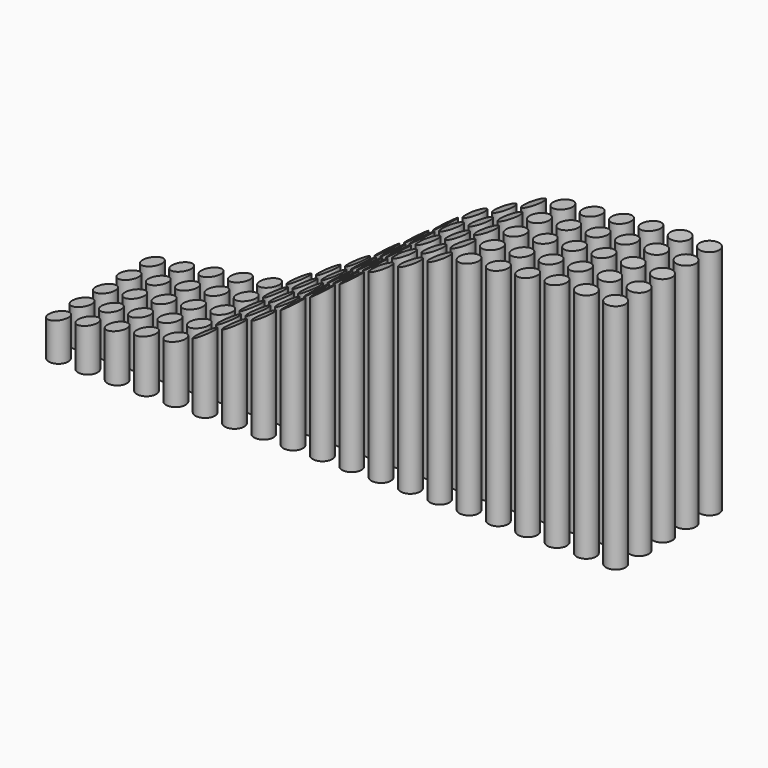
from build123d import *

# Parameters (mm, degrees)
F0_R          = 3.3707114483
F2_DEPTH      = 97.282
F3_DEPTH      = 66.548
F3_DEPTH_BACK = 25.4


with BuildPart() as f2:
    # F0 (on Top) → F2 (new body)
    with BuildSketch(Plane.XY):
        with Locations((-70.7707777619, 0)):
            Circle(F0_R)
        with Locations((-70.7707777619, 10.16)):
            Circle(F0_R)
        with Locations((-70.7707777619, 20.32)):
            Circle(F0_R)
        with Locations((-70.7707777619, 30.48)):
            Circle(F0_R)
        with Locations((-70.7707777619, 40.64)):
            Circle(F0_R)
        with Locations((-60.6107777619, 0)):
            Circle(F0_R)
        with Locations((-60.6107777619, 10.16)):
            Circle(F0_R)
        with Locations((-60.6107777619, 20.32)):
            Circle(F0_R)
        with Locations((-60.6107777619, 30.48)):
            Circle(F0_R)
        with Locations((-60.6107777619, 40.64)):
            Circle(F0_R)
        with Locations((-50.4507777619, 0)):
            Circle(F0_R)
        with Locations((-50.4507777619, 10.16)):
            Circle(F0_R)
        with Locations((-50.4507777619, 20.32)):
            Circle(F0_R)
        with Locations((-50.4507777619, 30.48)):
            Circle(F0_R)
        with Locations((-50.4507777619, 40.64)):
            Circle(F0_R)
        with Locations((-40.2907777619, 0)):
            Circle(F0_R)
        with Locations((-40.2907777619, 10.16)):
            Circle(F0_R)
        with Locations((-40.2907777619, 20.32)):
            Circle(F0_R)
        with Locations((-40.2907777619, 30.48)):
            Circle(F0_R)
        with Locations((-40.2907777619, 40.64)):
            Circle(F0_R)
        with Locations((-30.1307777619, 0)):
            Circle(F0_R)
        with Locations((-30.1307777619, 10.16)):
            Circle(F0_R)
        with Locations((-30.1307777619, 20.32)):
            Circle(F0_R)
        with Locations((-30.1307777619, 30.48)):
            Circle(F0_R)
        with Locations((-30.1307777619, 40.64)):
            Circle(F0_R)
        with Locations((-19.9707777619, 0)):
            Circle(F0_R)
        with Locations((-19.9707777619, 10.16)):
            Circle(F0_R)
        with Locations((-19.9707777619, 20.32)):
            Circle(F0_R)
        with Locations((-19.9707777619, 30.48)):
            Circle(F0_R)
        with Locations((-19.9707777619, 40.64)):
            Circle(F0_R)
        with Locations((-9.8107777619, 0)):
            Circle(F0_R)
        with Locations((-9.8107777619, 10.16)):
            Circle(F0_R)
        with Locations((-9.8107777619, 20.32)):
            Circle(F0_R)
        with Locations((-9.8107777619, 30.48)):
            Circle(F0_R)
        with Locations((-9.8107777619, 40.64)):
            Circle(F0_R)
        with Locations((0.3492222381, 0)):
            Circle(F0_R)
        with Locations((0.3492222381, 10.16)):
            Circle(F0_R)
        with Locations((0.3492222381, 20.32)):
            Circle(F0_R)
        with Locations((0.3492222381, 30.48)):
            Circle(F0_R)
        with Locations((0.3492222381, 40.64)):
            Circle(F0_R)
        with Locations((10.5092222381, 0)):
            Circle(F0_R)
        with Locations((10.5092222381, 10.16)):
            Circle(F0_R)
        with Locations((10.5092222381, 20.32)):
            Circle(F0_R)
        with Locations((10.5092222381, 30.48)):
            Circle(F0_R)
        with Locations((10.5092222381, 40.64)):
            Circle(F0_R)
        with Locations((20.6692222381, 0)):
            Circle(F0_R)
        with Locations((20.6692222381, 10.16)):
            Circle(F0_R)
        with Locations((20.6692222381, 20.32)):
            Circle(F0_R)
        with Locations((20.6692222381, 30.48)):
            Circle(F0_R)
        with Locations((20.6692222381, 40.64)):
            Circle(F0_R)
        with Locations((30.8292222381, 0)):
            Circle(F0_R)
        with Locations((30.8292222381, 10.16)):
            Circle(F0_R)
        with Locations((30.8292222381, 20.32)):
            Circle(F0_R)
        with Locations((30.8292222381, 30.48)):
            Circle(F0_R)
        with Locations((30.8292222381, 40.64)):
            Circle(F0_R)
        with Locations((40.9892222381, 0)):
            Circle(F0_R)
        with Locations((40.9892222381, 10.16)):
            Circle(F0_R)
        with Locations((40.9892222381, 20.32)):
            Circle(F0_R)
        with Locations((40.9892222381, 30.48)):
            Circle(F0_R)
        with Locations((40.9892222381, 40.64)):
            Circle(F0_R)
        with Locations((51.1492222381, 0)):
            Circle(F0_R)
        with Locations((51.1492222381, 10.16)):
            Circle(F0_R)
        with Locations((51.1492222381, 20.32)):
            Circle(F0_R)
        with Locations((51.1492222381, 30.48)):
            Circle(F0_R)
        with Locations((51.1492222381, 40.64)):
            Circle(F0_R)
        with Locations((61.3092222381, 0)):
            Circle(F0_R)
        with Locations((61.3092222381, 10.16)):
            Circle(F0_R)
        with Locations((61.3092222381, 20.32)):
            Circle(F0_R)
        with Locations((61.3092222381, 30.48)):
            Circle(F0_R)
        with Locations((61.3092222381, 40.64)):
            Circle(F0_R)
        with Locations((71.4692222381, 0)):
            Circle(F0_R)
        with Locations((71.4692222381, 10.16)):
            Circle(F0_R)
        with Locations((71.4692222381, 20.32)):
            Circle(F0_R)
        with Locations((71.4692222381, 30.48)):
            Circle(F0_R)
        with Locations((71.4692222381, 40.64)):
            Circle(F0_R)
        with Locations((81.6292222381, 0)):
            Circle(F0_R)
        with Locations((81.6292222381, 10.16)):
            Circle(F0_R)
        with Locations((81.6292222381, 20.32)):
            Circle(F0_R)
        with Locations((81.6292222381, 30.48)):
            Circle(F0_R)
        with Locations((81.6292222381, 40.64)):
            Circle(F0_R)
        with Locations((91.7892222381, 0)):
            Circle(F0_R)
        with Locations((91.7892222381, 10.16)):
            Circle(F0_R)
        with Locations((91.7892222381, 20.32)):
            Circle(F0_R)
        with Locations((91.7892222381, 30.48)):
            Circle(F0_R)
        with Locations((91.7892222381, 40.64)):
            Circle(F0_R)
        with Locations((101.9492222381, 0)):
            Circle(F0_R)
        with Locations((101.9492222381, 10.16)):
            Circle(F0_R)
        with Locations((101.9492222381, 20.32)):
            Circle(F0_R)
        with Locations((101.9492222381, 30.48)):
            Circle(F0_R)
        with Locations((101.9492222381, 40.64)):
            Circle(F0_R)
        with Locations((112.1092222381, 0)):
            Circle(F0_R)
        with Locations((112.1092222381, 10.16)):
            Circle(F0_R)
        with Locations((112.1092222381, 20.32)):
            Circle(F0_R)
        with Locations((112.1092222381, 30.48)):
            Circle(F0_R)
        with Locations((112.1092222381, 40.64)):
            Circle(F0_R)
        with Locations((122.2692222381, 0)):
            Circle(F0_R)
        with Locations((122.2692222381, 10.16)):
            Circle(F0_R)
        with Locations((122.2692222381, 20.32)):
            Circle(F0_R)
        with Locations((122.2692222381, 30.48)):
            Circle(F0_R)
        with Locations((122.2692222381, 40.64)):
            Circle(F0_R)
    extrude(amount=F2_DEPTH)

    # F1 (on Front) → F3 (cut, two sides)
    with BuildSketch(Plane.XZ) as f3_sk:
        Polygon((-90.4946221034, 97.4337564399), (-76.3768404722, 11.9840092957), (-26.7928559333, 20.1761443168), (3.6042784341, 38.0694903433), (38.0974784493, 62.6458972692), (66.1232024431, 76.0120153427), (105.3592190146, 80.3236663342), (127.5642216206, 80.3236663342), (144.7899341583, 106.1575785279), align=None)
    extrude(amount=-F3_DEPTH, mode=Mode.SUBTRACT)
    extrude(f3_sk.sketch, amount=F3_DEPTH_BACK, mode=Mode.SUBTRACT)


solid = f2.part
